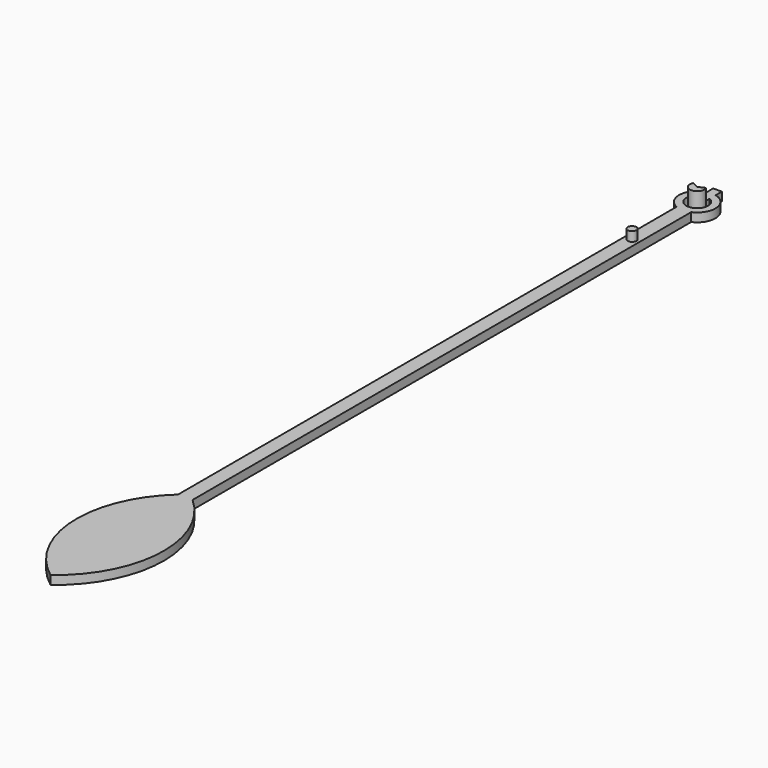
from build123d import *

# Parameters (mm, degrees)
F1_DEPTH = 12
F3_DEPTH = 30
F4_R     = 6
F5_DEPTH = 25


with BuildPart() as f1:
    # F0 (on Top) → F1 (new body)
    with BuildSketch(Plane.XY):
        with BuildLine():
            Line((10, -880.196601), (10, -22.912878))
            ThreePointArc((10, -22.912878), (24.910641, 2.111868), (6, 24.269322))
            Line((6, 24.269322), (6, 35))
            Line((6, 35), (-6, 35))
            Line((-6, 35), (-6, 24.269322))
            ThreePointArc((-6, 24.269322), (-24.910641, 2.111868), (-10, -22.912878))
            Line((-10, -22.912878), (-10, -880.196601))
            ThreePointArc((-10, -880.196601), (-59.860615, -998.464988), (0, -1112))
            ThreePointArc((0, -1112), (59.860615, -998.464988), (10, -880.196601))
        make_face()
        with BuildLine():
            ThreePointArc((6, 13.747727), (0, -15), (-6, 13.747727))
            Line((-6, 13.747727), (-6, 7.150522))
            Line((-6, 7.150522), (0, 0))
            Line((0, 0), (6, 7.150522))
            Line((6, 7.150522), (6, 13.747727))
        make_face(mode=Mode.SUBTRACT)
    extrude(amount=F1_DEPTH)

    # F4 (on Top) → F5 (join)
    with BuildSketch(Plane.XY):
        with Locations((0, -112)):
            Circle(F4_R)
    extrude(amount=F5_DEPTH)


with BuildPart() as f3:
    # F2 (on Top) → F3 (new body)
    with BuildSketch(Plane.XY):
        with BuildLine():
            Line((0, 0), (-9.063078, 4.226183))
            ThreePointArc((-9.063078, 4.226183), (0, -10), (9.063078, 4.226183))
            Line((9.063078, 4.226183), (0, 0))
        make_face()
    extrude(amount=F3_DEPTH)


solid = Compound([f1.part, f3.part])
